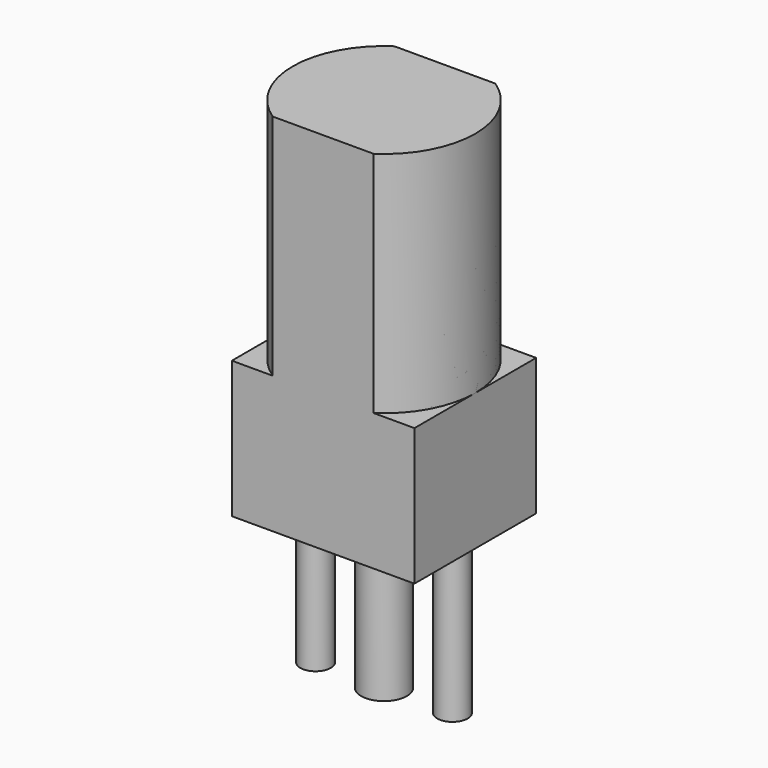
from build123d import *

# Parameters (mm, degrees)
CYLINDER032_R     = 1
CYLINDER032_DEPTH = 10
CYLINDER033_R     = 1
CYLINDER033_DEPTH = 10
BOX_W             = 12
BOX_H             = 10
BOX_DEPTH         = 9
CYLINDER034_R     = 2
CYLINDER034_DEPTH = 1
BOX004_W          = 10
BOX004_H          = 10
BOX004_DEPTH      = 12
CYLINDER031_R     = 1.5
CYLINDER031_DEPTH = 10
CYLINDER_R        = 6
CYLINDER_DEPTH    = 15
BOX001_W          = 16
BOX001_H          = 10
BOX001_DEPTH      = 27
CYLINDER036_R     = 2
CYLINDER036_DEPTH = 1
BOX003_W          = 16
BOX003_H          = 10
BOX003_DEPTH      = 27
CYLINDER037_R     = 6
CYLINDER037_DEPTH = 15
BOX005_W          = 10
BOX005_H          = 10
BOX005_DEPTH      = 12
CYLINDER038_R     = 1.5
CYLINDER038_DEPTH = 10
BOX002_W          = 12
BOX002_H          = 10
BOX002_DEPTH      = 9


with BuildPart() as cylinder032:
    # Cylinder032 → Cylinder032 (new body)
    with BuildSketch(Plane(origin=(4.5, 0, -10), x_dir=(1, 0, 0), z_dir=(0, 0, 1))):
        Circle(CYLINDER032_R)
    extrude(amount=CYLINDER032_DEPTH)


with BuildPart() as cylinder033:
    # Cylinder033 → Cylinder033 (new body)
    with BuildSketch(Plane(origin=(-4.5, 0, -10), x_dir=(1, 0, 0), z_dir=(0, 0, 1))):
        Circle(CYLINDER033_R)
    extrude(amount=CYLINDER033_DEPTH)


with BuildPart() as gearbox:
    # Box → Box (new body)
    with BuildSketch(Plane(origin=(-6, -5, 0), x_dir=(1, 0, 0), z_dir=(0, 0, 1))):
        with Locations((6, 5)):
            Rectangle(BOX_W, BOX_H)
    extrude(amount=BOX_DEPTH)


with BuildPart() as boss:
    # Cylinder034 → Cylinder034 (new body)
    with BuildSketch(Plane.XY.offset(-1)):
        Circle(CYLINDER034_R)
    extrude(amount=CYLINDER034_DEPTH)


with BuildPart() as cube:
    # Box004 → Box004 (new body)
    with BuildSketch(Plane(origin=(-5, 1, -11), x_dir=(1, 0, 0), z_dir=(0, 0, 1))):
        with Locations((5, 5)):
            Rectangle(BOX004_W, BOX004_H)
    extrude(amount=BOX004_DEPTH)


with BuildPart() as shaft:
    # Cylinder031 → Cylinder031 (new body)
    with BuildSketch(Plane.XY.offset(-10)):
        Circle(CYLINDER031_R)
    extrude(amount=CYLINDER031_DEPTH)

    # Cut: cut Cube
    add(cube.part, mode=Mode.SUBTRACT)


with BuildPart() as cylinder:
    # Cylinder → Cylinder (new body)
    with BuildSketch(Plane.XY.offset(9)):
        Circle(CYLINDER_R)
    extrude(amount=CYLINDER_DEPTH)


with BuildPart() as motor:
    # Box001 → Box001 (new body)
    with BuildSketch(Plane(origin=(-8, -5, 0), x_dir=(1, 0, 0), z_dir=(0, 0, 1))):
        with Locations((8, 5)):
            Rectangle(BOX001_W, BOX001_H)
    extrude(amount=BOX001_DEPTH)

    # Common: intersect Cylinder
    add(cylinder.part, mode=Mode.INTERSECT)


with BuildPart() as boss001:
    # Cylinder036 → Cylinder036 (new body)
    with BuildSketch(Plane.XY.offset(-1)):
        Circle(CYLINDER036_R)
    extrude(amount=CYLINDER036_DEPTH)


with BuildPart() as gearbox003:
    # Box003 → Box003 (new body)
    with BuildSketch(Plane(origin=(-8, -5, 0), x_dir=(1, 0, 0), z_dir=(0, 0, 1))):
        with Locations((8, 5)):
            Rectangle(BOX003_W, BOX003_H)
    extrude(amount=BOX003_DEPTH)


with BuildPart() as motor001:
    # Cylinder037 → Cylinder037 (new body)
    with BuildSketch(Plane.XY.offset(9)):
        Circle(CYLINDER037_R)
    extrude(amount=CYLINDER037_DEPTH)

    # Common001: intersect gearbox003
    add(gearbox003.part, mode=Mode.INTERSECT)


with BuildPart() as cube001:
    # Box005 → Box005 (new body)
    with BuildSketch(Plane(origin=(-5, 1, -11), x_dir=(1, 0, 0), z_dir=(0, 0, 1))):
        with Locations((5, 5)):
            Rectangle(BOX005_W, BOX005_H)
    extrude(amount=BOX005_DEPTH)


with BuildPart() as shaft001:
    # Cylinder038 → Cylinder038 (new body)
    with BuildSketch(Plane.XY.offset(-10)):
        Circle(CYLINDER038_R)
    extrude(amount=CYLINDER038_DEPTH)

    # Cut001: cut Cube001
    add(cube001.part, mode=Mode.SUBTRACT)


with BuildPart() as motor_assembled:
    # Box002 → Box002 (new body)
    with BuildSketch(Plane(origin=(-6, -5, 0), x_dir=(1, 0, 0), z_dir=(0, 0, 1))):
        with Locations((6, 5)):
            Rectangle(BOX002_W, BOX002_H)
    extrude(amount=BOX002_DEPTH)

    # Fusion: union boss001, motor001, shaft001
    add(boss001.part)
    add(motor001.part)
    add(shaft001.part)


solid = Compound([cylinder032.part, cylinder033.part, gearbox.part, boss.part, shaft.part, motor.part, motor_assembled.part])
